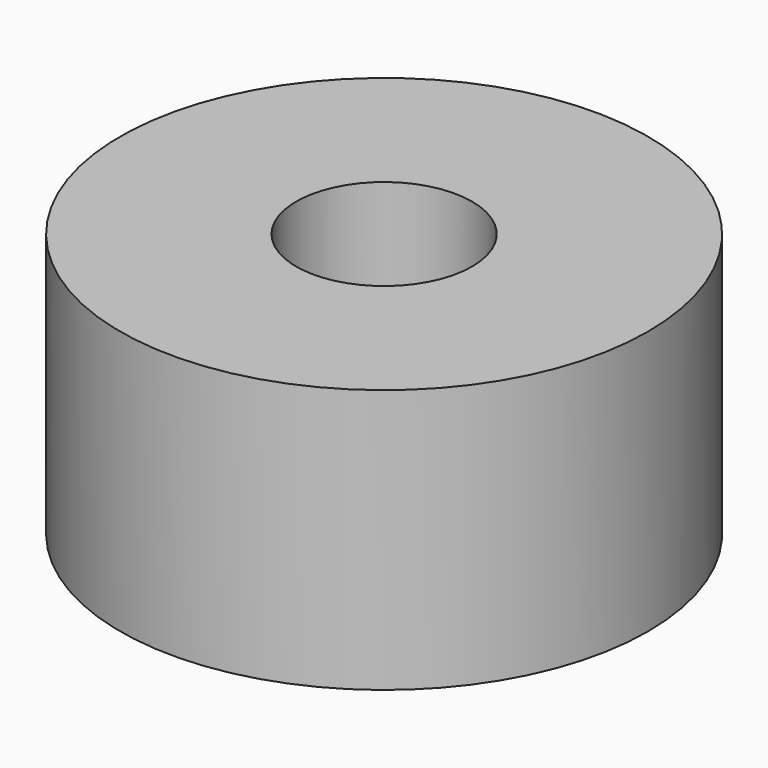
from build123d import *

# Parameters (mm, degrees)
F0_R     = 15
F2_DEPTH = 15
F1_R     = 5
F3_DEPTH = 15


with BuildPart() as f2:
    # F0 (on Top) → F2 (new body)
    with BuildSketch(Plane.XY):
        Circle(F0_R)
    extrude(amount=F2_DEPTH)

    # F1 (on face) → F3 (cut)
    with BuildSketch(Plane.XY):
        Circle(F1_R)
    extrude(amount=F3_DEPTH, mode=Mode.SUBTRACT)


solid = f2.part
